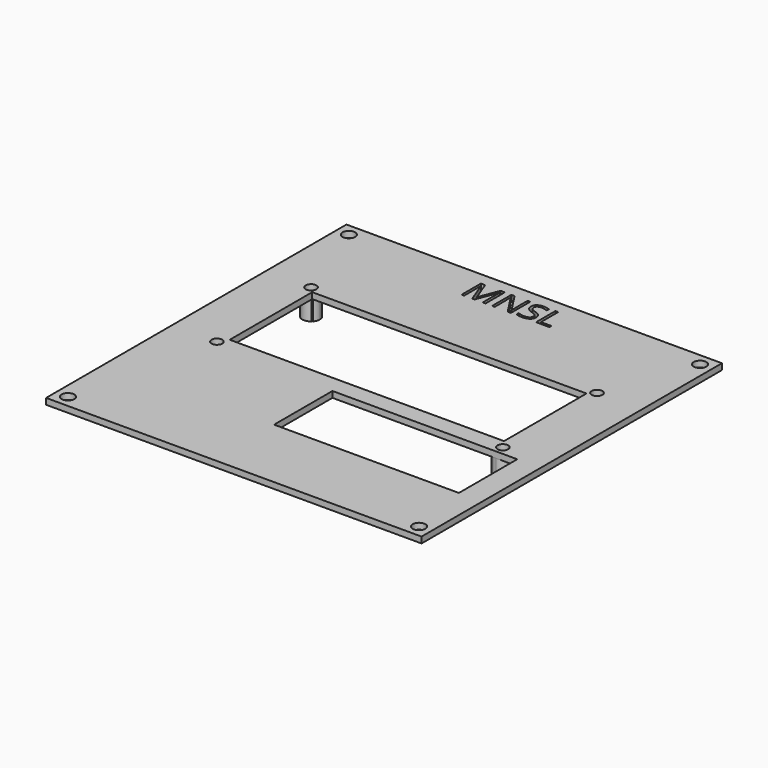
from build123d import *

# Parameters (mm, degrees)
F0_W     = 98.044
F0_H     = 98.044
F0_R     = 1.651
F0_R_2   = 2.286
F0_R_3   = 1.397
F1_DEPTH = 1.5875
F2_DEPTH = 5.08


with BuildPart() as f1:
    # F0 (on Top) → F1 (new body)
    with BuildSketch(Plane.XY):
        Rectangle(F0_W, F0_H)
        with Locations((-45.847, -45.847)):
            Circle(F0_R, mode=Mode.SUBTRACT)
        with Locations((-37.338, -7.874)):
            Circle(F0_R_2, mode=Mode.SUBTRACT)
        with Locations((45.847, -45.847)):
            Circle(F0_R, mode=Mode.SUBTRACT)
        Polygon((-5.334, -29.21), (-5.334, -10.16), (37.3379999666, -10.16), (42.926, -10.16), (42.926, -29.21), align=None, mode=Mode.SUBTRACT)
        with BuildLine():
            ThreePointArc((39.624, -7.874), (38.95444609, -9.4904461136), (37.3379999666, -10.16))
            ThreePointArc((37.3379999666, -10.16), (35.72155391, -6.2575538864), (39.624, -7.874))
        make_face(mode=Mode.SUBTRACT)
        with Locations((-45.847, 45.847)):
            Circle(F0_R, mode=Mode.SUBTRACT)
        with BuildLine():
            Line((-7.9581705729, 39.497), (-8.5479709201, 39.497))
            Line((-8.5479709201, 39.497), (-10.6839301215, 45.0780546875))
            Line((-10.6839301215, 45.0780546875), (-10.7183810764, 45.0780546875))
            add(Edge.make_bspline(
                [(-10.7183810764, 45.0780546875), (-10.6577473958, 44.415218316), (-10.6577473958, 43.5015789931)],
                knots=[0, 0, 0, 1, 1, 1], degree=2))
            Line((-10.6577473958, 43.5015789931), (-10.6577473958, 39.497))
            Line((-10.6577473958, 39.497), (-11.3343641493, 39.497))
            Line((-11.3343641493, 39.497), (-11.3343641493, 45.7932565104))
            Line((-11.3343641493, 45.7932565104), (-10.2319335938, 45.7932565104))
            Line((-10.2319335938, 45.7932565104), (-8.2379123264, 40.5994305556))
            Line((-8.2379123264, 40.5994305556), (-8.2034613715, 40.5994305556))
            Line((-8.2034613715, 40.5994305556), (-6.1929036458, 45.7932565104))
            Line((-6.1929036458, 45.7932565104), (-5.0987413194, 45.7932565104))
            Line((-5.0987413194, 45.7932565104), (-5.0987413194, 39.497))
            Line((-5.0987413194, 39.497), (-5.8304796007, 39.497))
            Line((-5.8304796007, 39.497), (-5.8304796007, 43.5539444444))
            add(Edge.make_bspline(
                [(-5.8304796007, 43.5539444444), (-5.8304796007, 44.2512317708), (-5.7698459201, 45.0697864583)],
                knots=[0, 0, 0, 1, 1, 1], degree=2))
            Line((-5.7698459201, 45.0697864583), (-5.804296875, 45.0697864583))
            Line((-5.804296875, 45.0697864583), (-7.9581705729, 39.497))
        make_face(mode=Mode.SUBTRACT)
        with BuildLine():
            Line((1.5461588542, 45.7932565104), (1.5461588542, 39.497))
            Line((1.5461588542, 39.497), (0.7110677083, 39.497))
            Line((0.7110677083, 39.497), (-2.7298936632, 44.7803984375))
            Line((-2.7298936632, 44.7803984375), (-2.7643446181, 44.7803984375))
            add(Edge.make_bspline(
                [(-2.7643446181, 44.7803984375), (-2.6954427083, 43.8502226563), (-2.6954427083, 43.075765191)],
                knots=[0, 0, 0, 1, 1, 1], degree=2))
            Line((-2.6954427083, 43.075765191), (-2.6954427083, 39.497))
            Line((-2.6954427083, 39.497), (-3.3720594618, 39.497))
            Line((-3.3720594618, 39.497), (-3.3720594618, 45.7932565104))
            Line((-3.3720594618, 45.7932565104), (-2.5452365451, 45.7932565104))
            Line((-2.5452365451, 45.7932565104), (0.8874565972, 40.5305286458))
            Line((0.8874565972, 40.5305286458), (0.9219075521, 40.5305286458))
            add(Edge.make_bspline(
                [(0.9219075521, 40.5305286458), (0.9136393229, 40.6462838542), (0.8833224826, 41.2774253472)],
                knots=[0, 0, 0, 1, 1, 1], degree=2))
            add(Edge.make_bspline(
                [(0.8833224826, 41.2774253472), (0.8530056424, 41.9085668403), (0.8612738715, 42.1800403646)],
                knots=[0, 0, 0, 1, 1, 1], degree=2))
            Line((0.8612738715, 42.1800403646), (0.8612738715, 45.7932565104))
            Line((0.8612738715, 45.7932565104), (1.5461588542, 45.7932565104))
        make_face(mode=Mode.SUBTRACT)
        with BuildLine():
            ThreePointArc((-35.814, 21.1561162011), (-39.4248229441, 23.793255592), (-35.052, 22.86))
            ThreePointArc((-35.052, 22.86), (-35.2024819874, 22.0443047028), (-35.6341162011, 21.336))
            Line((-35.6341162011, 21.336), (35.6341162011, 21.336))
            ThreePointArc((35.6341162011, 21.336), (36.5223047028, 24.9955180126), (39.624, 22.86))
            ThreePointArc((39.624, 22.86), (38.271255592, 20.7731770559), (35.814, 21.1561162011))
            Line((35.814, 21.1561162011), (35.814, -5.588))
            Line((35.814, -5.588), (-35.814, -5.588))
            Line((-35.814, -5.588), (-35.814, 21.1561162011))
        make_face(mode=Mode.SUBTRACT)
        with BuildLine():
            add(Edge.make_bspline(
                [(6.4574869792, 42.2227595486), (6.8295572917, 41.8176163194), (6.8295572917, 41.1726944444)],
                knots=[0, 0, 0, 1, 1, 1], degree=2))
            add(Edge.make_bspline(
                [(6.8295572917, 41.1726944444), (6.8295572917, 40.3417374132), (6.2266655816, 39.8759605035)],
                knots=[0, 0, 0, 1, 1, 1], degree=2))
            add(Edge.make_bspline(
                [(6.2266655816, 39.8759605035), (5.6237738715, 39.4101835938), (4.5902452257, 39.4101835938)],
                knots=[0, 0, 0, 1, 1, 1], degree=2))
            add(Edge.make_bspline(
                [(4.5902452257, 39.4101835938), (3.4712782118, 39.4101835938), (2.8676974826, 39.6995716146)],
                knots=[0, 0, 0, 1, 1, 1], degree=2))
            Line((2.8676974826, 39.6995716146), (2.8676974826, 40.4051271701))
            add(Edge.make_bspline(
                [(2.8676974826, 40.4051271701), (3.2563042535, 40.2425186632), (3.7124348958, 40.1474340278)],
                knots=[0, 0, 0, 1, 1, 1], degree=2))
            add(Edge.make_bspline(
                [(3.7124348958, 40.1474340278), (4.1685655382, 40.0523493924), (4.6164279514, 40.0523493924)],
                knots=[0, 0, 0, 1, 1, 1], degree=2))
            add(Edge.make_bspline(
                [(4.6164279514, 40.0523493924), (5.3481662326, 40.0523493924), (5.7188585069, 40.3300240885)],
                knots=[0, 0, 0, 1, 1, 1], degree=2))
            add(Edge.make_bspline(
                [(5.7188585069, 40.3300240885), (6.0895507813, 40.6076987847), (6.0895507813, 41.1037925347)],
                knots=[0, 0, 0, 1, 1, 1], degree=2))
            add(Edge.make_bspline(
                [(6.0895507813, 41.1037925347), (6.0895507813, 41.4303875868), (5.9579481337, 41.6391603733)],
                knots=[0, 0, 0, 1, 1, 1], degree=2))
            add(Edge.make_bspline(
                [(5.9579481337, 41.6391603733), (5.8263454861, 41.8479331597), (5.5183539497, 42.0250110677)],
                knots=[0, 0, 0, 1, 1, 1], degree=2))
            add(Edge.make_bspline(
                [(5.5183539497, 42.0250110677), (5.2103624132, 42.2020889757), (4.5819769965, 42.4253311632)],
                knots=[0, 0, 0, 1, 1, 1], degree=2))
            add(Edge.make_bspline(
                [(4.5819769965, 42.4253311632), (3.7041666667, 42.7395238715), (3.3272732205, 43.1701608073)],
                knots=[0, 0, 0, 1, 1, 1], degree=2))
            add(Edge.make_bspline(
                [(3.3272732205, 43.1701608073), (2.9503797743, 43.6007977431), (2.9503797743, 44.2939509549)],
                knots=[0, 0, 0, 1, 1, 1], degree=2))
            add(Edge.make_bspline(
                [(2.9503797743, 44.2939509549), (2.9503797743, 45.0215551215), (3.4967719184, 45.4521920573)],
                knots=[0, 0, 0, 1, 1, 1], degree=2))
            add(Edge.make_bspline(
                [(3.4967719184, 45.4521920573), (4.0431640625, 45.8828289931), (4.9444010417, 45.8828289931)],
                knots=[0, 0, 0, 1, 1, 1], degree=2))
            add(Edge.make_bspline(
                [(4.9444010417, 45.8828289931), (5.8828450521, 45.8828289931), (6.6710828993, 45.5383194444)],
                knots=[0, 0, 0, 1, 1, 1], degree=2))
            Line((6.6710828993, 45.5383194444), (6.442328559, 44.9016657986))
            add(Edge.make_bspline(
                [(6.442328559, 44.9016657986), (5.662358941, 45.2282608507), (4.9264865451, 45.2282608507)],
                knots=[0, 0, 0, 1, 1, 1], degree=2))
            add(Edge.make_bspline(
                [(4.9264865451, 45.2282608507), (4.3449544271, 45.2282608507), (4.0176703559, 44.9788359375)],
                knots=[0, 0, 0, 1, 1, 1], degree=2))
            add(Edge.make_bspline(
                [(4.0176703559, 44.9788359375), (3.6903862847, 44.7294110243), (3.6903862847, 44.2856827257)],
                knots=[0, 0, 0, 1, 1, 1], degree=2))
            add(Edge.make_bspline(
                [(3.6903862847, 44.2856827257), (3.6903862847, 43.9590876736), (3.8109646267, 43.7496258681)],
                knots=[0, 0, 0, 1, 1, 1], degree=2))
            add(Edge.make_bspline(
                [(3.8109646267, 43.7496258681), (3.9315429688, 43.5401640625), (4.2181749132, 43.3658422309)],
                knots=[0, 0, 0, 1, 1, 1], degree=2))
            add(Edge.make_bspline(
                [(4.2181749132, 43.3658422309), (4.5048068576, 43.1915203993), (5.0946072049, 42.9806805556)],
                knots=[0, 0, 0, 1, 1, 1], degree=2))
            add(Edge.make_bspline(
                [(5.0946072049, 42.9806805556), (6.0854166667, 42.6279027778), (6.4574869792, 42.2227595486)],
                knots=[0, 0, 0, 1, 1, 1], degree=2))
        make_face(mode=Mode.SUBTRACT)
        Polygon((11.6278862847, 39.497), (8.1180230035, 39.497), (8.1180230035, 45.7932565104), (8.8497612847, 45.7932565104), (8.8497612847, 40.1598363715), (11.6278862847, 40.1598363715), align=None, mode=Mode.SUBTRACT)
        with Locations((45.847, 45.847)):
            Circle(F0_R, mode=Mode.SUBTRACT)
        with Locations((-37.338, -7.874)):
            Circle(F0_R_2)
        with Locations((-37.338, -7.874)):
            Circle(F0_R_3, mode=Mode.SUBTRACT)
        with BuildLine():
            ThreePointArc((39.624, -7.874), (35.72155391, -6.2575538864), (37.3379999666, -10.16))
            ThreePointArc((37.3379999666, -10.16), (38.95444609, -9.4904461136), (39.624, -7.874))
        make_face()
        with Locations((37.338, -7.874)):
            Circle(F0_R_3, mode=Mode.SUBTRACT)
        with BuildLine():
            ThreePointArc((39.624, 22.86), (36.5223047028, 24.9955180126), (35.6341162011, 21.336))
            Line((35.6341162011, 21.336), (35.814, 21.336))
            Line((35.814, 21.336), (35.814, 21.1561162011))
            ThreePointArc((35.814, 21.1561162011), (38.271255592, 20.7731770559), (39.624, 22.86))
        make_face()
        with Locations((37.338, 22.86)):
            Circle(F0_R_3, mode=Mode.SUBTRACT)
        with BuildLine():
            ThreePointArc((-35.6341162011, 21.336), (-35.2024819874, 22.0443047028), (-35.052, 22.86))
            ThreePointArc((-35.052, 22.86), (-39.4248229441, 23.793255592), (-35.814, 21.1561162011))
            Line((-35.814, 21.1561162011), (-35.814, 21.336))
            Line((-35.814, 21.336), (-35.6341162011, 21.336))
        make_face()
        with Locations((-37.338, 22.86)):
            Circle(F0_R_3, mode=Mode.SUBTRACT)
    extrude(amount=F1_DEPTH)

    # F0 (on Top) → F2 (join)
    with BuildSketch(Plane.XY):
        with BuildLine():
            ThreePointArc((39.624, 22.86), (36.5223047028, 24.9955180126), (35.6341162011, 21.336))
            Line((35.6341162011, 21.336), (35.814, 21.336))
            Line((35.814, 21.336), (35.814, 21.1561162011))
            ThreePointArc((35.814, 21.1561162011), (38.271255592, 20.7731770559), (39.624, 22.86))
        make_face()
        with Locations((37.338, 22.86)):
            Circle(F0_R_3, mode=Mode.SUBTRACT)
        with Locations((-37.338, -7.874)):
            Circle(F0_R_2)
        with Locations((-37.338, -7.874)):
            Circle(F0_R_3, mode=Mode.SUBTRACT)
        with BuildLine():
            ThreePointArc((-35.6341162011, 21.336), (-35.2024819874, 22.0443047028), (-35.052, 22.86))
            ThreePointArc((-35.052, 22.86), (-39.4248229441, 23.793255592), (-35.814, 21.1561162011))
            Line((-35.814, 21.1561162011), (-35.814, 21.336))
            Line((-35.814, 21.336), (-35.6341162011, 21.336))
        make_face()
        with Locations((-37.338, 22.86)):
            Circle(F0_R_3, mode=Mode.SUBTRACT)
        with BuildLine():
            ThreePointArc((39.624, -7.874), (35.72155391, -6.2575538864), (37.3379999666, -10.16))
            ThreePointArc((37.3379999666, -10.16), (38.95444609, -9.4904461136), (39.624, -7.874))
        make_face()
        with Locations((37.338, -7.874)):
            Circle(F0_R_3, mode=Mode.SUBTRACT)
    extrude(amount=-F2_DEPTH)


solid = f1.part
